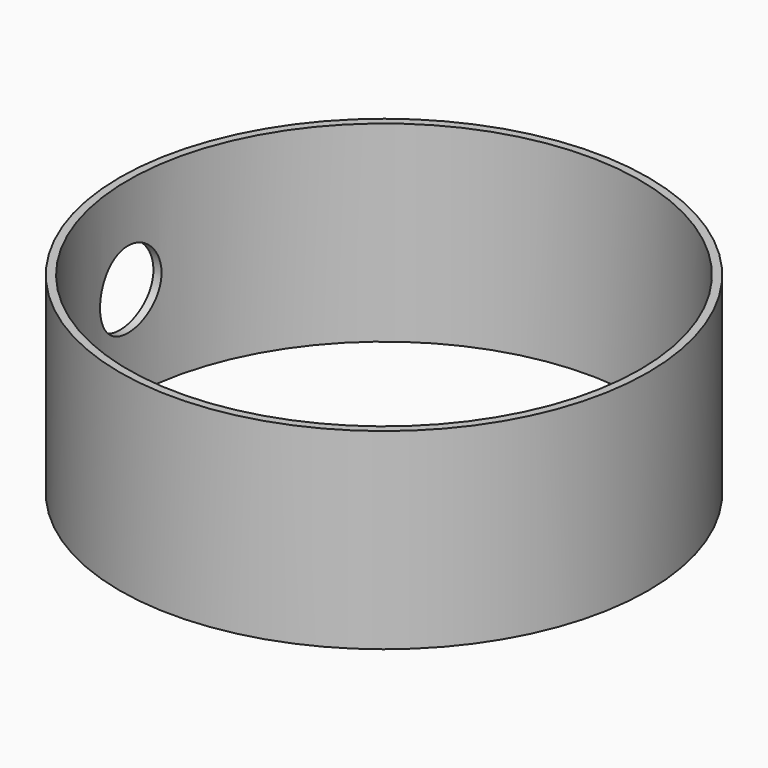
from build123d import *

# Parameters (mm, degrees)
F0_R     = 104.775
F0_R_2   = 101.6
F1_DEPTH = 38.1
F2_R     = 15.24
F3_DEPTH = 104.776


with BuildPart() as f1:
    # F0 (on Top) → F1 (new body, symmetric)
    with BuildSketch(Plane.XY):
        Circle(F0_R)
        Circle(F0_R_2, mode=Mode.SUBTRACT)
    extrude(amount=F1_DEPTH, both=True)

    # F2 (on Right) → F3 (cut, through all)
    with BuildSketch(Plane.YZ):
        Circle(F2_R)
    extrude(amount=-F3_DEPTH, mode=Mode.SUBTRACT)


solid = f1.part
